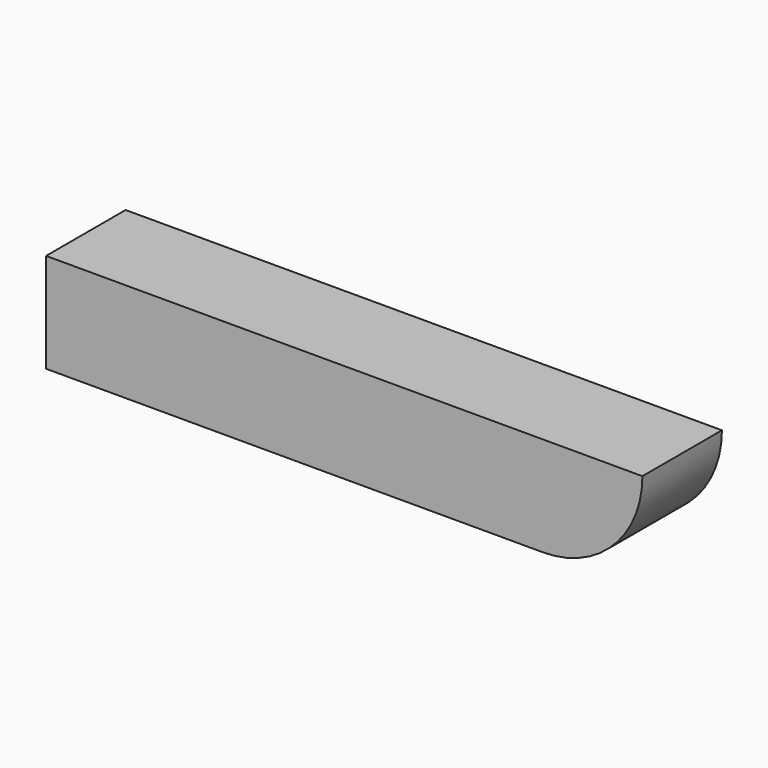
from build123d import *

# Parameters (mm, degrees)
F1_DEPTH = 25.4


with BuildPart() as f1:
    # F0 (on Front) → F1 (new body)
    with BuildSketch(Plane.XZ):
        with BuildLine():
            Line((89.04846, -8.337814), (63.64846, -8.337814))
            Line((63.64846, -8.337814), (63.64846, -11.530825))
            Line((63.64846, -11.530825), (63.64846, -33.737814))
            ThreePointArc((63.64846, -33.737814), (81.608973, -26.298326), (89.04846, -8.337814))
        make_face()
        Polygon((63.64846, -8.337814), (-63.35154, -8.337814), (-63.35154, -33.737814), (63.64846, -33.737814), (63.64846, -11.530825), align=None)
    extrude(amount=F1_DEPTH)


solid = f1.part
